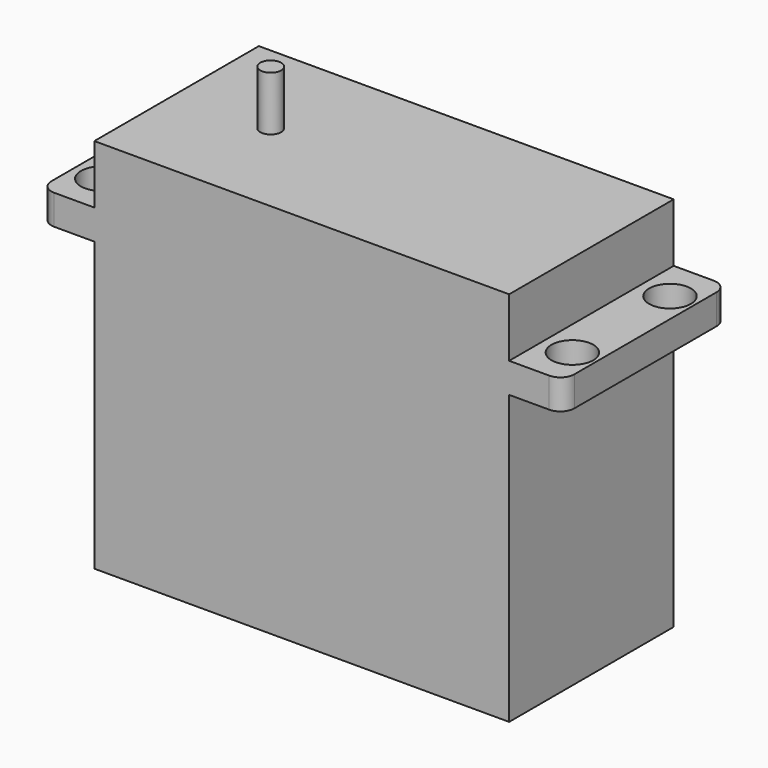
from build123d import *

# Parameters (mm, degrees)
F0_W          = 59.5
F0_H          = 29.5
F1_DEPTH      = 12.7
F1_DEPTH_BACK = 41.3
F2_R          = 3
F3_DEPTH      = 4.3
F4_R          = 1.5
F5_DEPTH      = 7.8


with BuildPart() as f1:
    # F0 (on Top) → F1 (new body, two sides)
    with BuildSketch(Plane.XY) as f1_sk:
        Rectangle(F0_W, F0_H)
    extrude(amount=F1_DEPTH)
    extrude(f1_sk.sketch, amount=-F1_DEPTH_BACK)

    # F2 (on Top) → F3 (join)
    with BuildSketch(Plane.XY):
        with BuildLine():
            Line((-35.5, -14.75), (35.5, -14.75))
            ThreePointArc((35.5, -14.75), (36.914214, -14.164214), (37.5, -12.75))
            Line((37.5, -12.75), (37.5, 12.75))
            ThreePointArc((37.5, 12.75), (36.914214, 14.164214), (35.5, 14.75))
            Line((35.5, 14.75), (-35.5, 14.75))
            ThreePointArc((-35.5, 14.75), (-36.914214, 14.164214), (-37.5, 12.75))
            Line((-37.5, 12.75), (-37.5, -12.75))
            ThreePointArc((-37.5, -12.75), (-36.914214, -14.164214), (-35.5, -14.75))
        make_face()
        with Locations((-33.476662, -8.75)):
            Circle(F2_R, mode=Mode.SUBTRACT)
        with Locations((34.023338, -8.75)):
            Circle(F2_R, mode=Mode.SUBTRACT)
        with Locations((-33.476662, 8.75)):
            Circle(F2_R, mode=Mode.SUBTRACT)
        with Locations((34.023338, 8.75)):
            Circle(F2_R, mode=Mode.SUBTRACT)
    extrude(amount=F3_DEPTH)

    # F4 (on face) → F5 (join)
    with BuildSketch(Plane.XY.offset(12.7)):
        with Locations((-16.25, 0)):
            Circle(F4_R)
    extrude(amount=F5_DEPTH)


solid = f1.part
